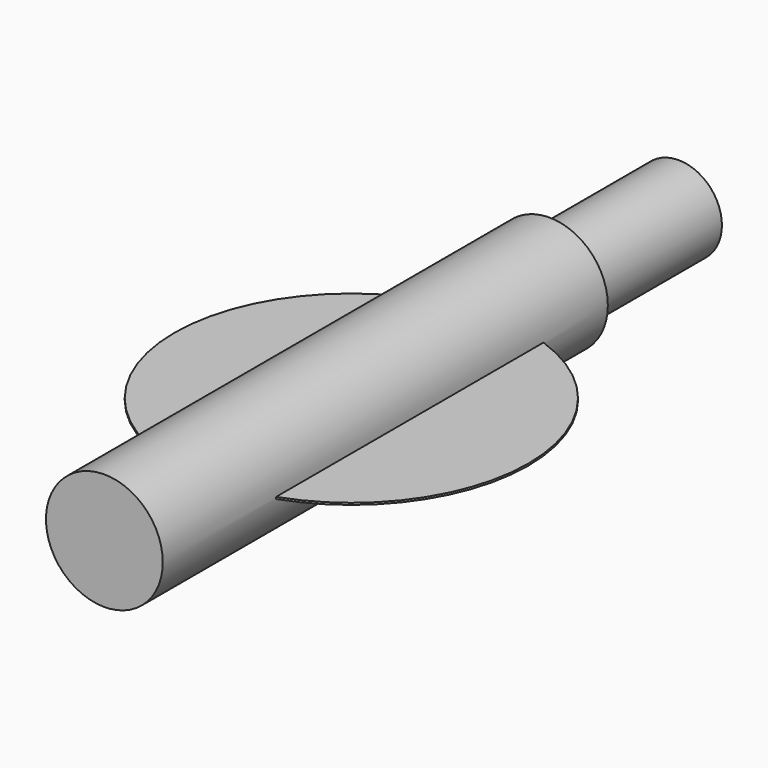
from build123d import *

# Parameters (mm, degrees)
F0_R     = 7.810875
F1_DEPTH = 74.422
F2_R     = 5.797625
F3_DEPTH = 21.59
F4_R     = 23.677635
F5_DEPTH = 0.254


with BuildPart() as f1:
    # F0 (on Front) → F1 (new body)
    with BuildSketch(Plane.XZ):
        Circle(F0_R)
    extrude(amount=F1_DEPTH)

    # F2 (on Front) → F3 (join)
    with BuildSketch(Plane.XZ):
        Circle(F2_R)
    extrude(amount=-F3_DEPTH)

    # F4 (on Top) → F5 (join)
    with BuildSketch(Plane.XY):
        with Locations((0, -33.121504)):
            Circle(F4_R)
    extrude(amount=-F5_DEPTH)


solid = f1.part
